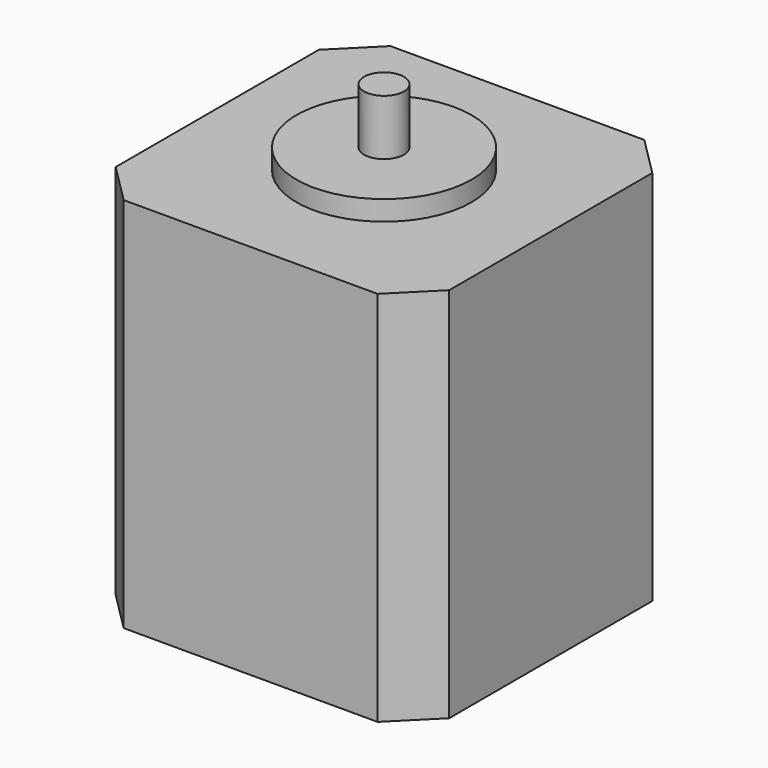
from build123d import *

# Parameters (mm, degrees)
F0_W     = 41.9
F0_H     = 41.9
F1_DEPTH = 47.35
F2_R     = 11
F3_DEPTH = 2.5
F4_R     = 2.5
F5_DEPTH = 7
F6_SIZE  = 5


with BuildPart() as f1:
    # F0 (on Top) → F1 (new body)
    with BuildSketch(Plane.XY):
        with Locations((2.841542, 4.216616)):
            Rectangle(F0_W, F0_H)
    extrude(amount=F1_DEPTH)

    # F2 (on face) → F3 (join)
    with BuildSketch(Plane.XY.offset(47.35)):
        with Locations((2.841542, 4.216616)):
            Circle(F2_R)
    extrude(amount=F3_DEPTH)

    # F4 (on face) → F5 (join)
    with BuildSketch(Plane.XY.offset(49.85)):
        with Locations((2.841542, 4.216616)):
            Circle(F4_R)
    extrude(amount=F5_DEPTH)

    # F6
    f6_edges = [f1.edges().sort_by_distance(p)[0] for p in [
        (-18.108458, 25.166616, 23.675),
        (-18.108458, -16.733384, 23.675),
        (23.791542, -16.733384, 23.675),
        (23.791542, 25.166616, 23.675),
    ]]
    chamfer(f6_edges, length=F6_SIZE)


solid = f1.part
